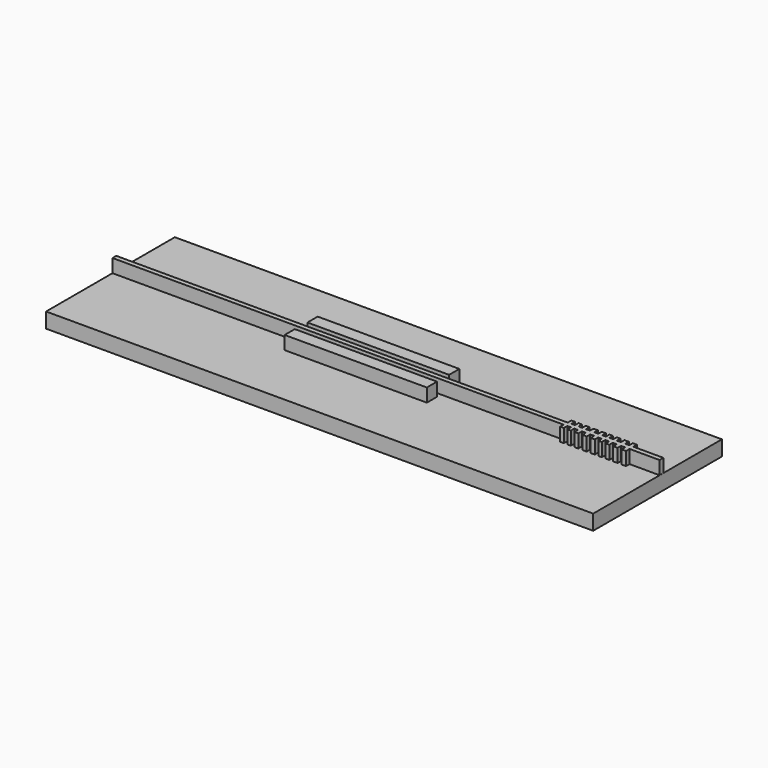
from build123d import *

# Parameters (mm, degrees)
F0_W     = 468.000486
F0_H     = 137.646743
F1_DEPTH = 12.954
F2_W     = 121.189991
F2_H     = 10.956902
F2_W_2   = 121.659321
F2_H_2   = 10.858484
F3_DEPTH = 11.43


with BuildPart() as f1:
    # F0 (on Top) → F1 (new body)
    with BuildSketch(Plane.XY):
        with Locations((-28.439099, 39.354104)):
            Rectangle(F0_W, F0_H)
    extrude(amount=F1_DEPTH)

    # F2 (on face) → F3 (join)
    with BuildSketch(Plane.XY.offset(12.954)):
        Polygon((123.783911, 49.460353), (123.783911, 45.553041), (-262.439342, 45.553041), (-262.439342, 41.511512), (123.529911, 41.511512), (123.51045, 37.820112), (126.581236, 37.820112), (126.581236, 41.581829), (129.575267, 41.581829), (129.575267, 37.820112), (132.569283, 37.820112), (132.569283, 41.581829), (135.793611, 41.581829), (135.793611, 37.820112), (139.017939, 37.820112), (139.017939, 41.581829), (142.395809, 41.581829), (142.395809, 37.820112), (146.157518, 37.820112), (146.157518, 41.581829), (149.535387, 41.581829), (149.535387, 37.820112), (153.066799, 37.820112), (153.066799, 41.581829), (156.060829, 41.581829), (156.060829, 37.820112), (159.054845, 37.820112), (159.054845, 41.581829), (162.279173, 41.581829), (162.279173, 37.820112), (165.503501, 37.820112), (165.503501, 41.581829), (168.881371, 41.581829), (168.881371, 37.820112), (172.64308, 37.820112), (172.64308, 41.581829), (176.02095, 41.581829), (176.02095, 37.820112), (179.806361, 37.820112), (179.806361, 41.626252), (205.451788, 41.58025), (205.451788, 45.698637), (179.806361, 45.698637), (179.806361, 49.460353), (176.27495, 49.460353), (176.27495, 45.698637), (172.89708, 45.698637), (172.89708, 49.460353), (169.135371, 49.460353), (169.135371, 45.698637), (165.757501, 45.698637), (165.757501, 49.460353), (162.533173, 49.460353), (162.533173, 45.698637), (159.308845, 45.698637), (159.308845, 49.460353), (156.314829, 49.460353), (156.314829, 45.698637), (153.320799, 45.698637), (153.320799, 49.460353), (149.789387, 49.460353), (149.789387, 45.698637), (146.411518, 45.698637), (146.411518, 49.460353), (142.649809, 49.460353), (142.649809, 45.698637), (139.271939, 45.698637), (139.271939, 49.460353), (136.047611, 49.460353), (136.047611, 45.698637), (132.823283, 45.698637), (132.823283, 49.460353), (129.829267, 49.460353), (129.829267, 45.698637), (126.835236, 45.698637), (126.835236, 49.460353), align=None)
        with Locations((-41.886206, 55.499995)):
            Rectangle(F2_W, F2_H)
        with Locations((-42.274945, 31.855833)):
            Rectangle(F2_W_2, F2_H_2)
    extrude(amount=F3_DEPTH)


solid = f1.part
